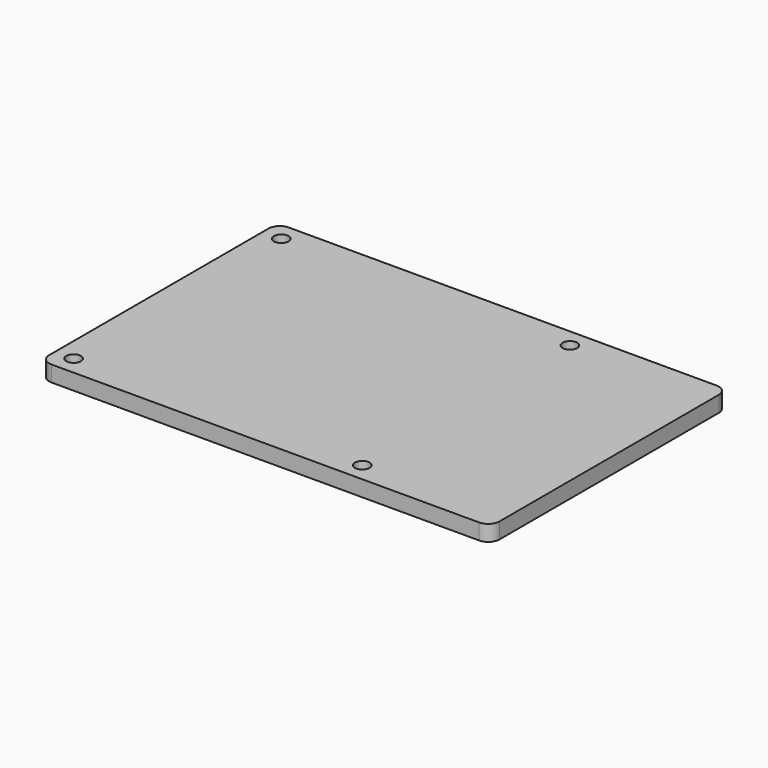
from build123d import *

# Parameters (mm, degrees)
SKETCH_R  = 1.375
PAD_DEPTH = 3


with BuildPart() as part:
    # Sketch → Pad (new body)
    with BuildSketch(Plane.XY):
        with BuildLine():
            ThreePointArc((0, 2.12132), (0.62132, 0.62132), (2.12132, 0))
            Line((82.87868, 0), (2.12132, 0))
            ThreePointArc((82.87868, 0), (84.37868, 0.62132), (85, 2.12132))
            Line((85, 53.87868), (85, 2.12132))
            ThreePointArc((85, 53.87868), (84.37868, 55.37868), (82.87868, 56))
            Line((2.12132, 56), (82.87868, 56))
            ThreePointArc((2.12132, 56), (0.62132, 55.37868), (0, 53.87868))
            Line((0, 2.12132), (0, 53.87868))
        make_face()
        with Locations((3.5, 3.5)):
            Circle(SKETCH_R, mode=Mode.SUBTRACT)
        with Locations((3.5, 52.5)):
            Circle(SKETCH_R, mode=Mode.SUBTRACT)
        with Locations((58, 52.5)):
            Circle(SKETCH_R, mode=Mode.SUBTRACT)
        with Locations((58, 3.5)):
            Circle(SKETCH_R, mode=Mode.SUBTRACT)
    extrude(amount=PAD_DEPTH)


solid = part.part
